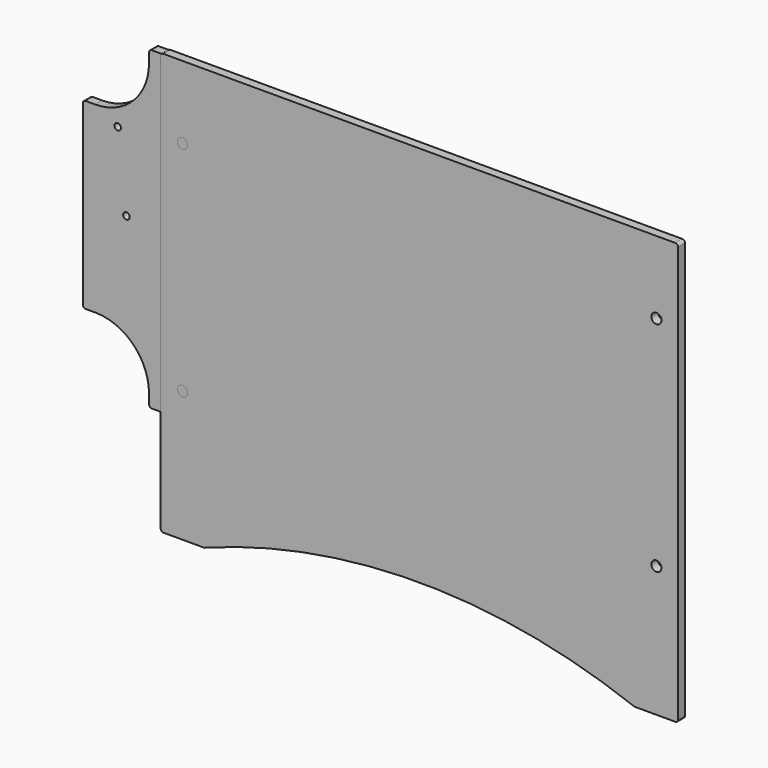
from build123d import *

# Parameters (mm, degrees)
F0_R      = 3.5
F0_R_2    = 4
F0_W      = 21.3
F0_H      = 28
F0_W_2    = 39.5
F0_H_2    = 39.5
F0_W_3    = 32.5
F0_H_3    = 65
F0_R_3    = 2.25
F1_DEPTH  = 6
F2_W      = 10
F2_H      = 4
F2_R      = 2.25
F2_W_2    = 32.5
F2_H_2    = 65
F3_DEPTH  = 6
F5_DEPTH  = 6
F6_R      = 2.25
F7_DEPTH  = 6
F9_DEPTH  = 6
F10_W     = 45
F10_H     = 45
F10_R     = 2.25
F10_R_2   = 14.5
F11_DEPTH = 6
F12_R     = 3.5
F12_W     = 296
F12_H     = 196
F13_DEPTH = 6


with BuildPart() as f1:
    # F0 (on Front) → F1 (new body)
    with BuildSketch(Plane.XZ):
        with BuildLine():
            Line((111, 100), (-111, 100))
            ThreePointArc((-111, 100), (-121.837049, 73.837049), (-148, 63))
            Line((-148, 63), (-148, -63))
            ThreePointArc((-148, -63), (-121.837049, -73.837049), (-111, -100))
            Line((-111, -100), (111, -100))
            ThreePointArc((111, -100), (121.837049, -73.837049), (148, -63))
            Line((148, -63), (148, 63))
            ThreePointArc((148, 63), (121.837049, 73.837049), (111, 100))
        make_face()
        with Locations((-108, -62.5)):
            Circle(F0_R, mode=Mode.SUBTRACT)
        with Locations((-88, -62.5)):
            Circle(F0_R, mode=Mode.SUBTRACT)
        with Locations((-33, -62.5)):
            Circle(F0_R, mode=Mode.SUBTRACT)
        with Locations((-13, -62.5)):
            Circle(F0_R, mode=Mode.SUBTRACT)
        with Locations((42, -62.5)):
            Circle(F0_R, mode=Mode.SUBTRACT)
        with Locations((62, -62.5)):
            Circle(F0_R, mode=Mode.SUBTRACT)
        with Locations((98, -95)):
            Circle(F0_R_2, mode=Mode.SUBTRACT)
        with Locations((98, -70)):
            Rectangle(F0_W, F0_H, mode=Mode.SUBTRACT)
        Polygon((-108, 62.5), (-75.5, 62.5), (-75.5, -2.5), (-108, -2.5), (-140.5, -2.5), (-140.5, 62.5), align=None, mode=Mode.SUBTRACT)
        Polygon((-33, 62.5), (-0.5, 62.5), (-0.5, -2.5), (-33, -2.5), (-65.5, -2.5), (-65.5, 62.5), align=None, mode=Mode.SUBTRACT)
        Polygon((42, 62.5), (74.5, 62.5), (74.5, -2.5), (42, -2.5), (9.5, -2.5), (9.5, 62.5), align=None, mode=Mode.SUBTRACT)
        with Locations((113, 30)):
            Rectangle(F0_W_2, F0_H_2, mode=Mode.SUBTRACT)
        with Locations((-91.75, 30)):
            Rectangle(F0_W_3, F0_H_3)
        with Locations((-89.5, 2.5)):
            Circle(F0_R_3, mode=Mode.SUBTRACT)
        with Locations((-83.5, 54.5)):
            Circle(F0_R_3, mode=Mode.SUBTRACT)
        with Locations((-49.25, 30)):
            Rectangle(F0_W_3, F0_H_3)
        with Locations((-51.5, 2.5)):
            Circle(F0_R_3, mode=Mode.SUBTRACT)
        with Locations((-57.5, 54.5)):
            Circle(F0_R_3, mode=Mode.SUBTRACT)
        with Locations((-16.75, 30)):
            Rectangle(F0_W_3, F0_H_3)
        with Locations((-14.5, 2.5)):
            Circle(F0_R_3, mode=Mode.SUBTRACT)
        with Locations((-8.5, 54.5)):
            Circle(F0_R_3, mode=Mode.SUBTRACT)
        with Locations((-124.25, 30)):
            Rectangle(F0_W_3, F0_H_3)
        with Locations((-126.5, 2.5)):
            Circle(F0_R_3, mode=Mode.SUBTRACT)
        with Locations((-132.5, 54.5)):
            Circle(F0_R_3, mode=Mode.SUBTRACT)
        with Locations((25.75, 30)):
            Rectangle(F0_W_3, F0_H_3)
        with Locations((23.5, 2.5)):
            Circle(F0_R_3, mode=Mode.SUBTRACT)
        with Locations((17.5, 54.5)):
            Circle(F0_R_3, mode=Mode.SUBTRACT)
        with Locations((58.25, 30)):
            Rectangle(F0_W_3, F0_H_3)
        with Locations((60.5, 2.5)):
            Circle(F0_R_3, mode=Mode.SUBTRACT)
        with Locations((66.5, 54.5)):
            Circle(F0_R_3, mode=Mode.SUBTRACT)
        with Locations((113, 30)):
            Rectangle(F0_W_2, F0_H_2)
        with Locations((97, 14)):
            Circle(F0_R_3, mode=Mode.SUBTRACT)
        with Locations((129, 14)):
            Circle(F0_R_3, mode=Mode.SUBTRACT)
        with BuildLine():
            ThreePointArc((127, 21), (125.535534, 17.464466), (122, 16))
            Line((122, 16), (104, 16))
            ThreePointArc((104, 16), (100.464466, 17.464466), (99, 21))
            Line((99, 21), (99, 39))
            ThreePointArc((99, 39), (100.464466, 42.535534), (104, 44))
            Line((104, 44), (122, 44))
            ThreePointArc((122, 44), (125.535534, 42.535534), (127, 39))
            Line((127, 39), (127, 21))
        make_face(mode=Mode.SUBTRACT)
        with Locations((97, 46)):
            Circle(F0_R_3, mode=Mode.SUBTRACT)
        with Locations((129, 46)):
            Circle(F0_R_3, mode=Mode.SUBTRACT)
        with BuildLine():
            Line((-148, -63), (-148, 63))
            Line((-148, 63), (-154.5, 63))
            ThreePointArc((-154.5, 63), (-155.914214, 62.414214), (-156.5, 61))
            Line((-156.5, 61), (-156.5, -61))
            ThreePointArc((-156.5, -61), (-155.914214, -62.414214), (-154.5, -63))
            Line((-154.5, -63), (-148, -63))
        make_face()
        with BuildLine():
            Line((-111, 106.5), (-111, 100))
            Line((-111, 100), (111, 100))
            Line((111, 100), (111, 106.5))
            ThreePointArc((111, 106.5), (110.414214, 107.914214), (109, 108.5))
            Line((109, 108.5), (-109, 108.5))
            ThreePointArc((-109, 108.5), (-110.414214, 107.914214), (-111, 106.5))
        make_face()
        with BuildLine():
            Line((154.5, 63), (148, 63))
            Line((148, 63), (148, -63))
            Line((148, -63), (154.5, -63))
            ThreePointArc((154.5, -63), (155.914214, -62.414214), (156.5, -61))
            Line((156.5, -61), (156.5, 61))
            ThreePointArc((156.5, 61), (155.914214, 62.414214), (154.5, 63))
        make_face()
        with BuildLine():
            Line((111, -100), (-111, -100))
            Line((-111, -100), (-111, -106.5))
            ThreePointArc((-111, -106.5), (-110.414214, -107.914214), (-109, -108.5))
            Line((-109, -108.5), (109, -108.5))
            ThreePointArc((109, -108.5), (110.414214, -107.914214), (111, -106.5))
            Line((111, -106.5), (111, -100))
        make_face()
    extrude(amount=F1_DEPTH)


with BuildPart() as f3:
    # F2 (on Front) → F3 (new body)
    with BuildSketch(Plane.XZ):
        with BuildLine():
            Line((35.967569, 121.078587), (-186.032431, 121.078587))
            ThreePointArc((-186.032431, 121.078587), (-196.86948, 94.915636), (-223.032431, 84.078587))
            Line((-223.032431, 84.078587), (-223.032431, -41.921413))
            ThreePointArc((-223.032431, -41.921413), (-196.86948, -52.758462), (-186.032431, -78.921413))
            Line((-186.032431, -78.921413), (35.967569, -78.921413))
            ThreePointArc((35.967569, -78.921413), (46.804618, -52.758462), (72.967569, -41.921413))
            Line((72.967569, -41.921413), (72.967569, 84.078587))
            ThreePointArc((72.967569, 84.078587), (46.804618, 94.915636), (35.967569, 121.078587))
        make_face()
        Polygon((8.967569, 43.578587), (66.967569, 43.578587), (66.967569, -41.421413), (13.617569, -41.421413), (8.967569, -41.421413), align=None, mode=Mode.SUBTRACT)
        Polygon((-183.032431, 83.578587), (-150.532431, 83.578587), (-150.532431, 18.578587), (-183.032431, 18.578587), (-215.532431, 18.578587), (-215.532431, 83.578587), align=None, mode=Mode.SUBTRACT)
        Polygon((-108.032431, 83.578587), (-75.532431, 83.578587), (-75.532431, 18.578587), (-108.032431, 18.578587), (-140.532431, 18.578587), (-140.532431, 83.578587), align=None, mode=Mode.SUBTRACT)
        Polygon((-33.032431, 83.578587), (-0.532431, 83.578587), (-0.532431, 18.578587), (-33.032431, 18.578587), (-65.532431, 18.578587), (-65.532431, 83.578587), align=None, mode=Mode.SUBTRACT)
        with BuildLine():
            Line((-186.032431, 127.578587), (-186.032431, 121.078587))
            Line((-186.032431, 121.078587), (35.967569, 121.078587))
            Line((35.967569, 121.078587), (35.967569, 127.578587))
            ThreePointArc((35.967569, 127.578587), (35.381782, 128.992801), (33.967569, 129.578587))
            Line((33.967569, 129.578587), (-184.032431, 129.578587))
            ThreePointArc((-184.032431, 129.578587), (-185.446645, 128.992801), (-186.032431, 127.578587))
        make_face()
        with BuildLine():
            Line((79.467569, 84.078587), (72.967569, 84.078587))
            Line((72.967569, 84.078587), (72.967569, -41.921413))
            Line((72.967569, -41.921413), (79.467569, -41.921413))
            ThreePointArc((79.467569, -41.921413), (80.881782, -41.335626), (81.467569, -39.921413))
            Line((81.467569, -39.921413), (81.467569, 82.078587))
            ThreePointArc((81.467569, 82.078587), (80.881782, 83.492801), (79.467569, 84.078587))
        make_face()
        with BuildLine():
            Line((-223.032431, -41.921413), (-223.032431, 84.078587))
            Line((-223.032431, 84.078587), (-229.532431, 84.078587))
            ThreePointArc((-229.532431, 84.078587), (-230.946645, 83.492801), (-231.532431, 82.078587))
            Line((-231.532431, 82.078587), (-231.532431, -39.921413))
            ThreePointArc((-231.532431, -39.921413), (-230.946645, -41.335626), (-229.532431, -41.921413))
            Line((-229.532431, -41.921413), (-223.032431, -41.921413))
        make_face()
        with BuildLine():
            Line((35.967569, -78.921413), (-186.032431, -78.921413))
            Line((-186.032431, -78.921413), (-186.032431, -85.421413))
            ThreePointArc((-186.032431, -85.421413), (-185.446645, -86.835626), (-184.032431, -87.421413))
            Line((-184.032431, -87.421413), (33.967569, -87.421413))
            ThreePointArc((33.967569, -87.421413), (35.381782, -86.835626), (35.967569, -85.421413))
            Line((35.967569, -85.421413), (35.967569, -78.921413))
        make_face()
        Polygon((66.967569, -41.421413), (66.967569, 43.578587), (8.967569, 43.578587), (8.967569, -41.421413), (13.617569, -41.421413), align=None)
        with Locations((18.617569, -37.421413)):
            Rectangle(F2_W, F2_H, mode=Mode.SUBTRACT)
        with Locations((62.017569, 39.928587)):
            Circle(F2_R, mode=Mode.SUBTRACT)
        with Locations((-16.782431, 51.078587)):
            Rectangle(F2_W_2, F2_H_2)
        with Locations((-14.532431, 23.578587)):
            Circle(F2_R, mode=Mode.SUBTRACT)
        with Locations((-8.532431, 75.578587)):
            Circle(F2_R, mode=Mode.SUBTRACT)
        with Locations((-49.282431, 51.078587)):
            Rectangle(F2_W_2, F2_H_2)
        with Locations((-51.532431, 23.578587)):
            Circle(F2_R, mode=Mode.SUBTRACT)
        with Locations((-57.532431, 75.578587)):
            Circle(F2_R, mode=Mode.SUBTRACT)
        with Locations((-91.782431, 51.078587)):
            Rectangle(F2_W_2, F2_H_2)
        with Locations((-89.532431, 23.578587)):
            Circle(F2_R, mode=Mode.SUBTRACT)
        with Locations((-83.532431, 75.578587)):
            Circle(F2_R, mode=Mode.SUBTRACT)
        with Locations((-124.282431, 51.078587)):
            Rectangle(F2_W_2, F2_H_2)
        with Locations((-126.532431, 23.578587)):
            Circle(F2_R, mode=Mode.SUBTRACT)
        with Locations((-132.532431, 75.578587)):
            Circle(F2_R, mode=Mode.SUBTRACT)
        with Locations((-166.782431, 51.078587)):
            Rectangle(F2_W_2, F2_H_2)
        with Locations((-164.532431, 23.578587)):
            Circle(F2_R, mode=Mode.SUBTRACT)
        with Locations((-158.532431, 75.578587)):
            Circle(F2_R, mode=Mode.SUBTRACT)
        with Locations((-199.282431, 51.078587)):
            Rectangle(F2_W_2, F2_H_2)
        with Locations((-201.532431, 23.578587)):
            Circle(F2_R, mode=Mode.SUBTRACT)
        with Locations((-207.532431, 75.578587)):
            Circle(F2_R, mode=Mode.SUBTRACT)
    extrude(amount=F3_DEPTH)


with BuildPart() as f5:
    # F4 (on Front) → F5 (new body)
    with BuildSketch(Plane.XZ):
        with BuildLine():
            Line((61, 100), (-61, 100))
            ThreePointArc((-61, 100), (-71.837049, 73.837049), (-98, 63))
            Line((-98, 63), (-98, -63))
            ThreePointArc((-98, -63), (-71.837049, -73.837049), (-61, -100))
            Line((-61, -100), (61, -100))
            ThreePointArc((61, -100), (71.837049, -73.837049), (98, -63))
            Line((98, -63), (98, 63))
            ThreePointArc((98, 63), (71.837049, 73.837049), (61, 100))
        make_face()
        with BuildLine():
            Line((-98, -63), (-98, 63))
            Line((-98, 63), (-104.5, 63))
            ThreePointArc((-104.5, 63), (-105.914214, 62.414214), (-106.5, 61))
            Line((-106.5, 61), (-106.5, -61))
            ThreePointArc((-106.5, -61), (-105.914214, -62.414214), (-104.5, -63))
            Line((-104.5, -63), (-98, -63))
        make_face()
        with BuildLine():
            Line((-61, 106.5), (-61, 100))
            Line((-61, 100), (61, 100))
            Line((61, 100), (61, 106.5))
            ThreePointArc((61, 106.5), (60.414214, 107.914214), (59, 108.5))
            Line((59, 108.5), (-59, 108.5))
            ThreePointArc((-59, 108.5), (-60.414214, 107.914214), (-61, 106.5))
        make_face()
        with BuildLine():
            Line((104.5, 63), (98, 63))
            Line((98, 63), (98, -63))
            Line((98, -63), (104.5, -63))
            ThreePointArc((104.5, -63), (105.914214, -62.414214), (106.5, -61))
            Line((106.5, -61), (106.5, 61))
            ThreePointArc((106.5, 61), (105.914214, 62.414214), (104.5, 63))
        make_face()
        with BuildLine():
            Line((61, -100), (-61, -100))
            Line((-61, -100), (-61, -106.5))
            ThreePointArc((-61, -106.5), (-60.414214, -107.914214), (-59, -108.5))
            Line((-59, -108.5), (59, -108.5))
            ThreePointArc((59, -108.5), (60.414214, -107.914214), (61, -106.5))
            Line((61, -106.5), (61, -100))
        make_face()
    extrude(amount=F5_DEPTH)


with BuildPart() as f7:
    # F6 (on Front) → F7 (new body)
    with BuildSketch(Plane.XZ):
        with BuildLine():
            ThreePointArc((98, 63), (71.837049, 73.837049), (61, 100))
            Line((61, 100), (-61, 100))
            ThreePointArc((-61, 100), (-71.837049, 73.837049), (-98, 63))
            Line((-98, 63), (-98, -63))
            ThreePointArc((-98, -63), (-71.837049, -73.837049), (-61, -100))
            Line((-61, -100), (61, -100))
            ThreePointArc((61, -100), (71.837049, -73.837049), (98, -63))
            Line((98, -63), (98, 63))
        make_face()
        with Locations((-68, -70)):
            Circle(F6_R, mode=Mode.SUBTRACT)
        with Locations((68, -70)):
            Circle(F6_R, mode=Mode.SUBTRACT)
        with Locations((-68, 70)):
            Circle(F6_R, mode=Mode.SUBTRACT)
        with Locations((68, 70)):
            Circle(F6_R, mode=Mode.SUBTRACT)
        with BuildLine():
            Line((-61, 100), (61, 100))
            Line((61, 100), (61, 106.5))
            ThreePointArc((61, 106.5), (60.414214, 107.914214), (59, 108.5))
            Line((59, 108.5), (-59, 108.5))
            ThreePointArc((-59, 108.5), (-60.414214, 107.914214), (-61, 106.5))
            Line((-61, 106.5), (-61, 100))
        make_face()
        with BuildLine():
            Line((104.5, 63), (98, 63))
            Line((98, 63), (98, -63))
            Line((98, -63), (104.5, -63))
            ThreePointArc((104.5, -63), (105.914214, -62.414214), (106.5, -61))
            Line((106.5, -61), (106.5, 61))
            ThreePointArc((106.5, 61), (105.914214, 62.414214), (104.5, 63))
        make_face()
        with BuildLine():
            Line((-98, -63), (-98, 63))
            Line((-98, 63), (-104.5, 63))
            ThreePointArc((-104.5, 63), (-105.914214, 62.414214), (-106.5, 61))
            Line((-106.5, 61), (-106.5, -61))
            ThreePointArc((-106.5, -61), (-105.914214, -62.414214), (-104.5, -63))
            Line((-104.5, -63), (-98, -63))
        make_face()
        with BuildLine():
            Line((61, -106.5), (61, -100))
            Line((61, -100), (-61, -100))
            Line((-61, -100), (-61, -106.5))
            ThreePointArc((-61, -106.5), (-60.414214, -107.914214), (-59, -108.5))
            Line((-59, -108.5), (59, -108.5))
            ThreePointArc((59, -108.5), (60.414214, -107.914214), (61, -106.5))
        make_face()
    extrude(amount=F7_DEPTH)


with BuildPart() as f9:
    # F8 (on Front) → F9 (new body)
    with BuildSketch(Plane.XZ):
        with BuildLine():
            ThreePointArc((148, 61), (121.837049, 71.837049), (111, 98))
            Line((111, 98), (-111, 98))
            ThreePointArc((-111, 98), (-121.837049, 71.837049), (-148, 61))
            Line((-148, 61), (-148, -61))
            ThreePointArc((-148, -61), (-121.837049, -71.837049), (-111, -98))
            Line((-111, -98), (111, -98))
            ThreePointArc((111, -98), (121.837049, -71.837049), (148, -61))
            Line((148, -61), (148, 61))
        make_face()
        with BuildLine():
            ThreePointArc((148, 61), (121.837049, 71.837049), (111, 98))
            Line((111, 98), (-111, 98))
            ThreePointArc((-111, 98), (-121.837049, 71.837049), (-148, 61))
            Line((-148, 61), (-148, -61))
            ThreePointArc((-148, -61), (-121.837049, -71.837049), (-111, -98))
            Line((-111, -98), (111, -98))
            ThreePointArc((111, -98), (121.837049, -71.837049), (148, -61))
            Line((148, -61), (148, 61))
        make_face()
        with BuildLine():
            Line((154.5, 61), (148, 61))
            Line((148, 61), (148, -61))
            Line((148, -61), (154.5, -61))
            ThreePointArc((154.5, -61), (155.914214, -60.414214), (156.5, -59))
            Line((156.5, -59), (156.5, 59))
            ThreePointArc((156.5, 59), (155.914214, 60.414214), (154.5, 61))
        make_face()
        with BuildLine():
            ThreePointArc((148, 61), (121.837049, 71.837049), (111, 98))
            Line((111, 98), (-111, 98))
            ThreePointArc((-111, 98), (-121.837049, 71.837049), (-148, 61))
            Line((-148, 61), (-148, -61))
            ThreePointArc((-148, -61), (-121.837049, -71.837049), (-111, -98))
            Line((-111, -98), (111, -98))
            ThreePointArc((111, -98), (121.837049, -71.837049), (148, -61))
            Line((148, -61), (148, 61))
        make_face()
        with BuildLine():
            Line((-148, -61), (-148, 61))
            Line((-148, 61), (-154.5, 61))
            ThreePointArc((-154.5, 61), (-155.914214, 60.414214), (-156.5, 59))
            Line((-156.5, 59), (-156.5, -59))
            ThreePointArc((-156.5, -59), (-155.914214, -60.414214), (-154.5, -61))
            Line((-154.5, -61), (-148, -61))
        make_face()
    extrude(amount=F9_DEPTH)


with BuildPart() as f11:
    # F10 (on Front) → F11 (new body)
    with BuildSketch(Plane.XZ):
        with BuildLine():
            ThreePointArc((148, 61), (121.837049, 71.837049), (111, 98))
            Line((111, 98), (-111, 98))
            ThreePointArc((-111, 98), (-121.837049, 71.837049), (-148, 61))
            Line((-148, 61), (-148, -61))
            ThreePointArc((-148, -61), (-121.837049, -71.837049), (-111, -98))
            Line((-111, -98), (111, -98))
            ThreePointArc((111, -98), (121.837049, -71.837049), (148, -61))
            Line((148, -61), (148, 61))
        make_face()
        Rectangle(F10_W, F10_H, mode=Mode.SUBTRACT)
        Rectangle(F10_W, F10_H)
        with Locations((-14.5, -14.5)):
            Circle(F10_R, mode=Mode.SUBTRACT)
        with Locations((14.5, -14.5)):
            Circle(F10_R, mode=Mode.SUBTRACT)
        with Locations((-14.5, 14.5)):
            Circle(F10_R, mode=Mode.SUBTRACT)
        Circle(F10_R_2, mode=Mode.SUBTRACT)
        with Locations((14.5, 14.5)):
            Circle(F10_R, mode=Mode.SUBTRACT)
        with BuildLine():
            Line((-111, 98), (111, 98))
            Line((111, 98), (111, 104.5))
            ThreePointArc((111, 104.5), (110.414214, 105.914214), (109, 106.5))
            Line((109, 106.5), (-109, 106.5))
            ThreePointArc((-109, 106.5), (-110.414214, 105.914214), (-111, 104.5))
            Line((-111, 104.5), (-111, 98))
        make_face()
        with BuildLine():
            Line((154.5, 61), (148, 61))
            Line((148, 61), (148, -61))
            Line((148, -61), (154.5, -61))
            ThreePointArc((154.5, -61), (155.914214, -60.414214), (156.5, -59))
            Line((156.5, -59), (156.5, 59))
            ThreePointArc((156.5, 59), (155.914214, 60.414214), (154.5, 61))
        make_face()
        with BuildLine():
            Line((-148, -61), (-148, 61))
            Line((-148, 61), (-154.5, 61))
            ThreePointArc((-154.5, 61), (-155.914214, 60.414214), (-156.5, 59))
            Line((-156.5, 59), (-156.5, -59))
            ThreePointArc((-156.5, -59), (-155.914214, -60.414214), (-154.5, -61))
            Line((-154.5, -61), (-148, -61))
        make_face()
        with BuildLine():
            Line((111, -104.5), (111, -98))
            Line((111, -98), (-111, -98))
            Line((-111, -98), (-111, -104.5))
            ThreePointArc((-111, -104.5), (-110.414214, -105.914214), (-109, -106.5))
            Line((-109, -106.5), (109, -106.5))
            ThreePointArc((109, -106.5), (110.414214, -105.914214), (111, -104.5))
        make_face()
    extrude(amount=F11_DEPTH)


with BuildPart() as f13:
    # F12 (on Front) → F13 (new body)
    with BuildSketch(Plane.XZ):
        with BuildLine():
            ThreePointArc((178, 128), (177.414214, 129.414214), (176, 130))
            Line((176, 130), (-176, 130))
            ThreePointArc((-176, 130), (-177.414214, 129.414214), (-178, 128))
            Line((-178, 128), (-178, -130))
            Line((-178, -130), (-148, -130))
            Line((-148, -130), (148, -130))
            Line((148, -130), (178, -130))
            Line((178, -130), (178, 128))
        make_face()
        with Locations((-163, -70)):
            Circle(F12_R, mode=Mode.SUBTRACT)
        with Locations((163, -70)):
            Circle(F12_R, mode=Mode.SUBTRACT)
        with Locations((-163, 80)):
            Circle(F12_R, mode=Mode.SUBTRACT)
        Rectangle(F12_W, F12_H, mode=Mode.SUBTRACT)
        with Locations((163, 80)):
            Circle(F12_R, mode=Mode.SUBTRACT)
        with BuildLine():
            Line((148, -160), (148, -130))
            Line((148, -130), (-148, -130))
            Line((-148, -130), (-148, -160))
            ThreePointArc((-148, -160), (0, -132.877312), (148, -160))
        make_face()
        with BuildLine():
            Line((-148, -130), (-178, -130))
            Line((-178, -130), (-178, -158))
            ThreePointArc((-178, -158), (-177.414214, -159.414214), (-176, -160))
            Line((-176, -160), (-148, -160))
            Line((-148, -160), (-148, -130))
        make_face()
        with BuildLine():
            Line((178, -158), (178, -130))
            Line((178, -130), (148, -130))
            Line((148, -130), (148, -160))
            Line((148, -160), (176, -160))
            ThreePointArc((176, -160), (177.414214, -159.414214), (178, -158))
        make_face()
        Rectangle(F12_W, F12_H)
    extrude(amount=F13_DEPTH)


solid = Compound([f1.part, f3.part, f5.part, f7.part, f9.part, f11.part, f13.part])
